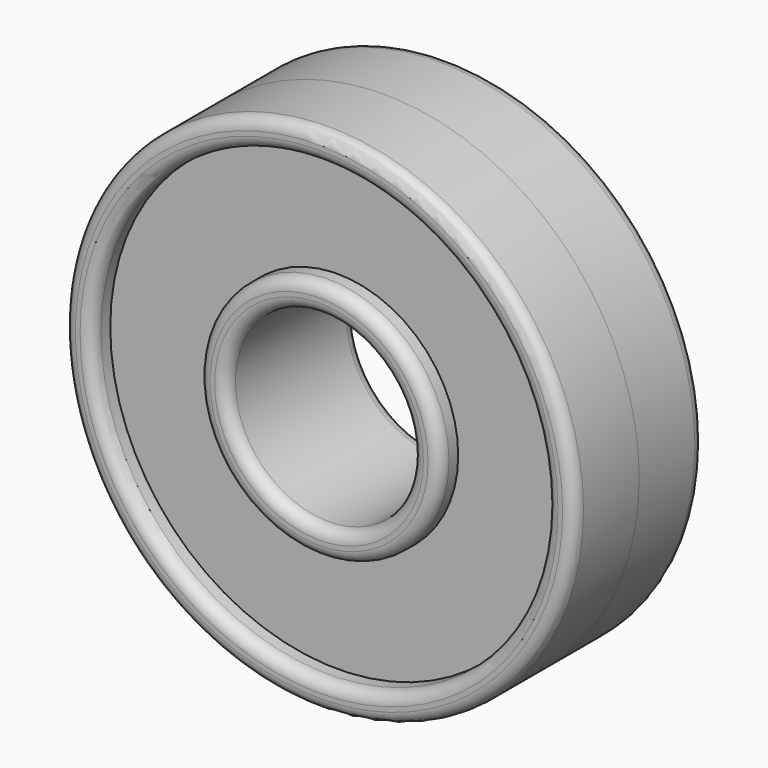
from build123d import *

# Parameters (mm, degrees)
F0_R     = 11
F0_R_2   = 9.8
F0_R_3   = 5.2
F0_R_4   = 4
F1_DEPTH = 3.5
F2_R     = 0.5
F3_DEPTH = 2.5


with BuildPart() as f1:
    # F0 (on Front) → F1 (new body, symmetric)
    with BuildSketch(Plane.XZ):
        Circle(F0_R)
        Circle(F0_R_2, mode=Mode.SUBTRACT)
        Circle(F0_R_3)
        Circle(F0_R_4, mode=Mode.SUBTRACT)
    extrude(amount=F1_DEPTH, both=True)

    # F2
    f2_edges = [f1.edges().sort_by_distance(p)[0] for p in [
        (-11, -3.5, 0),
        (-11, 3.5, 0),
        (-9.8, -3.5, 0),
        (-9.8, 3.5, 0),
        (-5.2, -3.5, 0),
        (-5.2, 3.5, 0),
        (-4, -3.5, 0),
        (-4, 3.5, 0),
    ]]
    fillet(f2_edges, radius=F2_R)


with BuildPart() as f3:
    # F0 (on Front) → F3 (new body, symmetric)
    with BuildSketch(Plane.XZ):
        Circle(F0_R_2)
        Circle(F0_R_3, mode=Mode.SUBTRACT)
    extrude(amount=F3_DEPTH, both=True)


solid = Compound([f1.part, f3.part])
